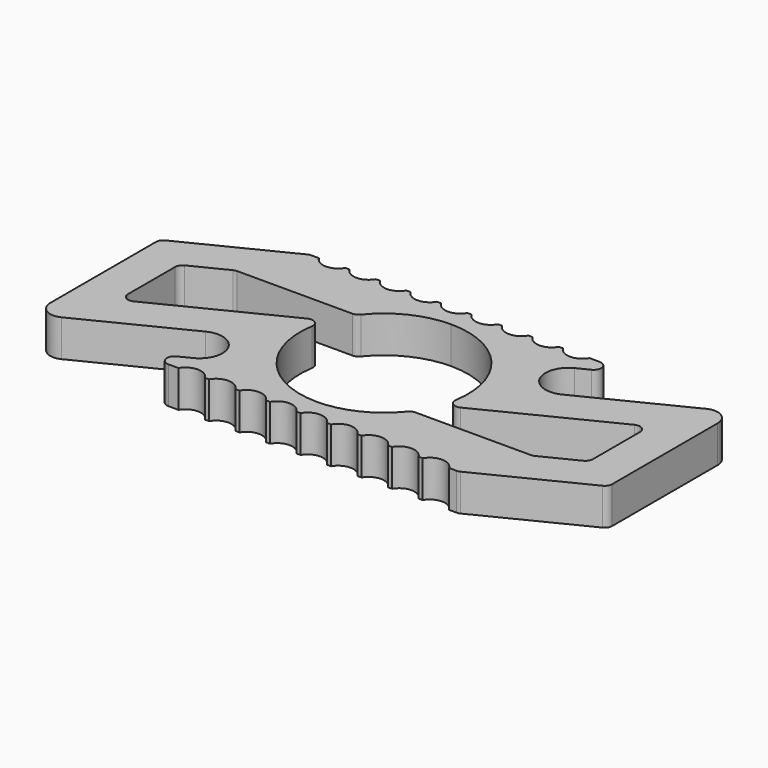
from build123d import *

# Parameters (mm, degrees)
F1_DEPTH = 4.83
F2_R     = 2
F3_DEPTH = 25


with BuildPart() as f1:
    # F0 (on Top) → F1 (new body)
    with BuildSketch(Plane.XY):
        with BuildLine():
            Line((-17.055728, -14), (0, -14))
            Line((0, -14), (20.722462, -14))
            ThreePointArc((20.722462, -14), (20.952215, -13.973249), (21.169675, -13.894427))
            Line((21.169675, -13.894427), (34.447214, -7.255658))
            ThreePointArc((34.447214, -7.255658), (34.850651, -6.886962), (35, -6.361231))
            Line((35, -6.361231), (35, 10.90983))
            ThreePointArc((35, 10.90983), (34.051462, 12.611132), (32.105573, 12.698684))
            Line((32.105573, 12.698684), (18.608514, 5.950155))
            ThreePointArc((18.608514, 5.950155), (14.583592, 7.291796), (15.925233, 11.316718))
            Line((15.925233, 11.316718), (17.502942, 12.105573))
            ThreePointArc((17.502942, 12.105573), (18.028977, 13.229753), (17.055728, 14))
            Line((17.055728, 14), (0, 14))
            Line((0, 14), (-20.722462, 14))
            ThreePointArc((-20.722462, 14), (-20.952215, 13.973249), (-21.169675, 13.894427))
            Line((-21.169675, 13.894427), (-34.447214, 7.255658))
            ThreePointArc((-34.447214, 7.255658), (-34.850651, 6.886962), (-35, 6.361231))
            Line((-35, 6.361231), (-35, -10.90983))
            ThreePointArc((-35, -10.90983), (-34.051462, -12.611132), (-32.105573, -12.698684))
            Line((-32.105573, -12.698684), (-18.608514, -5.950155))
            ThreePointArc((-18.608514, -5.950155), (-14.583592, -7.291796), (-15.925233, -11.316718))
            Line((-15.925233, -11.316718), (-17.502942, -12.105573))
            ThreePointArc((-17.502942, -12.105573), (-18.028977, -13.229753), (-17.055728, -14))
        make_face()
        with BuildLine():
            ThreePointArc((0, -11), (-8.37196, -7.135145), (-10.860935, 1.743584))
            ThreePointArc((-10.860935, 1.743584), (-11.256595, 2.708251), (-12.295507, 2.796519))
            Line((-12.295507, 2.796519), (-28.552786, -5.332121))
            ThreePointArc((-28.552786, -5.332121), (-29.525731, -5.288345), (-30, -4.437694))
            Line((-30, -4.437694), (-30, 3.271061))
            ThreePointArc((-30, 3.271061), (-29.850651, 3.796792), (-29.447214, 4.165488))
            Line((-29.447214, 4.165488), (-24.92942, 6.424385))
            ThreePointArc((-24.92942, 6.424385), (-24.711959, 6.503207), (-24.482206, 6.529958))
            Line((-24.482206, 6.529958), (-9.343433, 6.529958))
            ThreePointArc((-9.343433, 6.529958), (-8.911864, 6.627878), (-8.564813, 6.902461))
            ThreePointArc((-8.564813, 6.902461), (-4.747259, 9.922879), (0, 11))
            ThreePointArc((0, 11), (8.37196, 7.135145), (10.860935, -1.743584))
            ThreePointArc((10.860935, -1.743584), (11.256595, -2.708251), (12.295507, -2.796519))
            Line((12.295507, -2.796519), (28.552786, 5.332121))
            ThreePointArc((28.552786, 5.332121), (29.525731, 5.288345), (30, 4.437694))
            Line((30, 4.437694), (30, -3.271061))
            ThreePointArc((30, -3.271061), (29.850651, -3.796792), (29.447214, -4.165488))
            Line((29.447214, -4.165488), (24.92942, -6.424385))
            ThreePointArc((24.92942, -6.424385), (24.711959, -6.503207), (24.482206, -6.529958))
            Line((24.482206, -6.529958), (9.343433, -6.529958))
            ThreePointArc((9.343433, -6.529958), (8.911864, -6.627878), (8.564813, -6.902461))
            ThreePointArc((8.564813, -6.902461), (4.747259, -9.922879), (0, -11))
        make_face(mode=Mode.SUBTRACT)
    extrude(amount=F1_DEPTH)

    # F2 (on face) → F3 (cut)
    with BuildSketch(Plane.XY.offset(4.83)):
        with Locations((-18, 15)):
            Circle(F2_R)
        with BuildLine():
            ThreePointArc((16, 15), (14, 17), (12, 15))
            ThreePointArc((12, 15), (14, 13), (16, 15))
        make_face()
        with BuildLine():
            ThreePointArc((12, 15), (10, 17), (8, 15))
            ThreePointArc((8, 15), (10, 13), (12, 15))
        make_face()
        with BuildLine():
            ThreePointArc((8, 15), (6, 17), (4, 15))
            ThreePointArc((4, 15), (6, 13), (8, 15))
        make_face()
        with BuildLine():
            ThreePointArc((4, 15), (2, 17), (0, 15))
            ThreePointArc((0, 15), (2, 13), (4, 15))
        make_face()
        with BuildLine():
            ThreePointArc((0, 15), (-2, 17), (-4, 15))
            ThreePointArc((-4, 15), (-2, 13), (0, 15))
        make_face()
        with BuildLine():
            ThreePointArc((-4, 15), (-6, 17), (-8, 15))
            ThreePointArc((-8, 15), (-6, 13), (-4, 15))
        make_face()
        with BuildLine():
            ThreePointArc((-8, 15), (-10, 17), (-12, 15))
            ThreePointArc((-12, 15), (-10, 13), (-8, 15))
        make_face()
        with BuildLine():
            ThreePointArc((-12, 15), (-14, 17), (-16, 15))
            ThreePointArc((-16, 15), (-14, 13), (-12, 15))
        make_face()
        with BuildLine():
            ThreePointArc((0, -15), (2, -17), (4, -15))
            ThreePointArc((4, -15), (2, -13), (0, -15))
        make_face()
        with Locations((-14, -15)):
            Circle(F2_R)
        with BuildLine():
            ThreePointArc((-12, -15), (-10, -17), (-8, -15))
            ThreePointArc((-8, -15), (-10, -13), (-12, -15))
        make_face()
        with BuildLine():
            ThreePointArc((-8, -15), (-6, -17), (-4, -15))
            ThreePointArc((-4, -15), (-6, -13), (-8, -15))
        make_face()
        with BuildLine():
            ThreePointArc((-4, -15), (-2, -17), (0, -15))
            ThreePointArc((0, -15), (-2, -13), (-4, -15))
        make_face()
        with BuildLine():
            ThreePointArc((20, -15), (18, -13), (16, -15))
            ThreePointArc((16, -15), (18, -17), (20, -15))
        make_face()
        with BuildLine():
            ThreePointArc((16, -15), (14, -13), (12, -15))
            ThreePointArc((12, -15), (14, -17), (16, -15))
        make_face()
        with BuildLine():
            ThreePointArc((12, -15), (10, -13), (8, -15))
            ThreePointArc((8, -15), (10, -17), (12, -15))
        make_face()
        with BuildLine():
            ThreePointArc((8, -15), (6, -13), (4, -15))
            ThreePointArc((4, -15), (6, -17), (8, -15))
        make_face()
    extrude(amount=-F3_DEPTH, mode=Mode.SUBTRACT)


solid = f1.part
